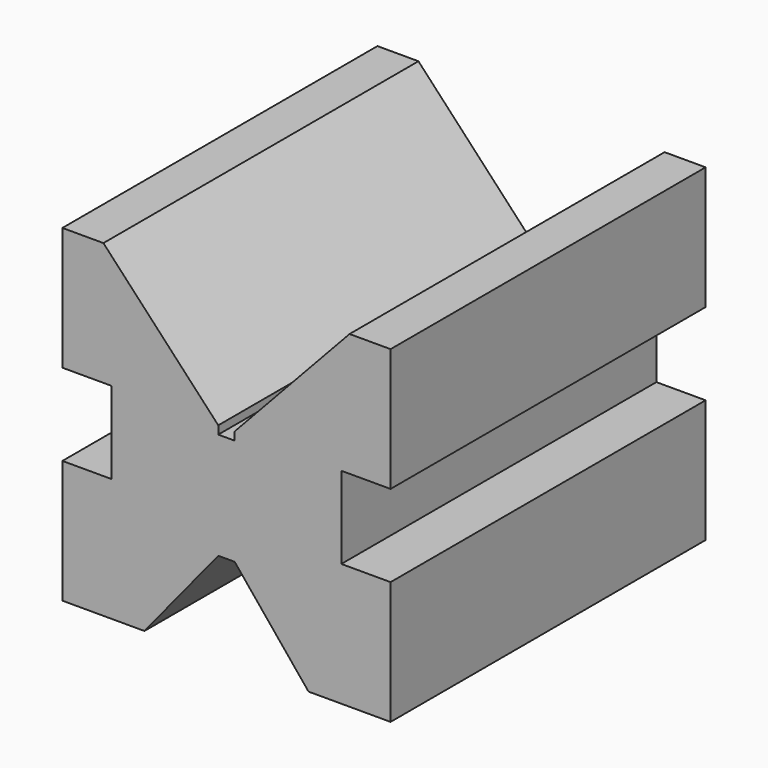
from build123d import *

# Parameters (mm, degrees)
F1_DEPTH = 48


with BuildPart() as f1:
    # F0 (on Front) → F1 (new body)
    with BuildSketch(Plane.XZ):
        Polygon((1.001695, 4.448923), (0, 4.448923), (-1.001695, 4.448923), (-1.001695, 5.448802), (-15, 20.448802), (-20, 20.448802), (-20, 5.448802), (-14, 5.448802), (-14, -4.551198), (-20, -4.551198), (-20, -19.551198), (-10, -19.551198), (-1.001695, -8.549503), (0, -8.549503), (1.001695, -8.549503), (10, -19.551198), (20, -19.551198), (20, -4.551198), (14, -4.551198), (14, 5.448802), (20, 5.448802), (20, 20.448802), (15, 20.448802), (1.001695, 5.448802), align=None)
    extrude(amount=-F1_DEPTH)


solid = f1.part
